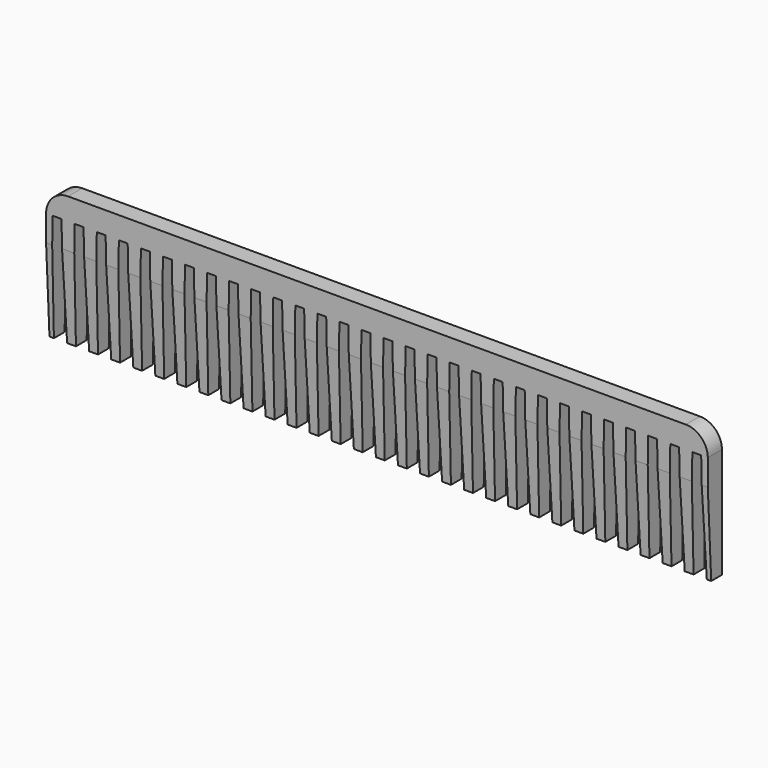
from build123d import *

# Parameters (mm, degrees)
F1_DEPTH = 2
F2_R     = 5
F4_DEPTH = 208


with BuildPart() as f1:
    # F0 (on Front) → F1 (new body, symmetric)
    with BuildSketch(Plane.XZ):
        Polygon((-75, 30), (-75, 0), (-74, 0), (-73.5, 24.994999), (-71.5, 24.994999), (-71, 0), (-69, 0), (-68.5, 24.994999), (-66.5, 24.994999), (-66, 0), (-64, 0), (-63.5, 24.994999), (-61.5, 24.994999), (-61, 0), (-59, 0), (-58.5, 24.994999), (-56.5, 24.994999), (-56, 0), (-54, 0), (-53.5, 24.994999), (-51.5, 24.994999), (-51, 0), (-49, 0), (-48.5, 24.994999), (-46.5, 24.994999), (-46, 0), (-44, 0), (-43.5, 24.994999), (-41.5, 24.994999), (-41, 0), (-39, 0), (-38.5, 24.994999), (-36.5, 24.994999), (-36, 0), (-34, 0), (-33.5, 24.994999), (-31.5, 24.994999), (-31, 0), (-29, 0), (-28.5, 24.994999), (-26.5, 24.994999), (-26, 0), (-24, 0), (-23.5, 24.994999), (-21.5, 24.994999), (-21, 0), (-19, 0), (-18.5, 24.994999), (-16.5, 24.994999), (-16, 0), (-14, 0), (-13.5, 24.994999), (-11.5, 24.994999), (-11, 0), (-9, 0), (-8.5, 24.994999), (-6.5, 24.994999), (-6, 0), (-4, 0), (-3.5, 24.994999), (-1.5, 24.994999), (-1, 0), (0, 0), (0, 30), align=None)
    extrude(amount=F1_DEPTH, both=True)

    # F2
    f2_edges = [f1.edges().sort_by_distance(p)[0] for p in [
        (-75, 0, 30),
    ]]
    fillet(f2_edges, radius=F2_R)

    # F3 (on Right) → F4 (cut)
    with BuildSketch(Plane.YZ):
        Polygon((-1.037374, 0), (-2, 19.114297), (-2, 0), align=None)
    extrude(amount=-F4_DEPTH, mode=Mode.SUBTRACT)

    # F5: F1 across face


with BuildPart() as f1_1:
    add(f1.part)
    add(f1.part.mirror(Plane(origin=(0, 0.139421, 15.716448), x_dir=(0, 1, 0), z_dir=(1, 0, 0))))


solid = f1_1.part
